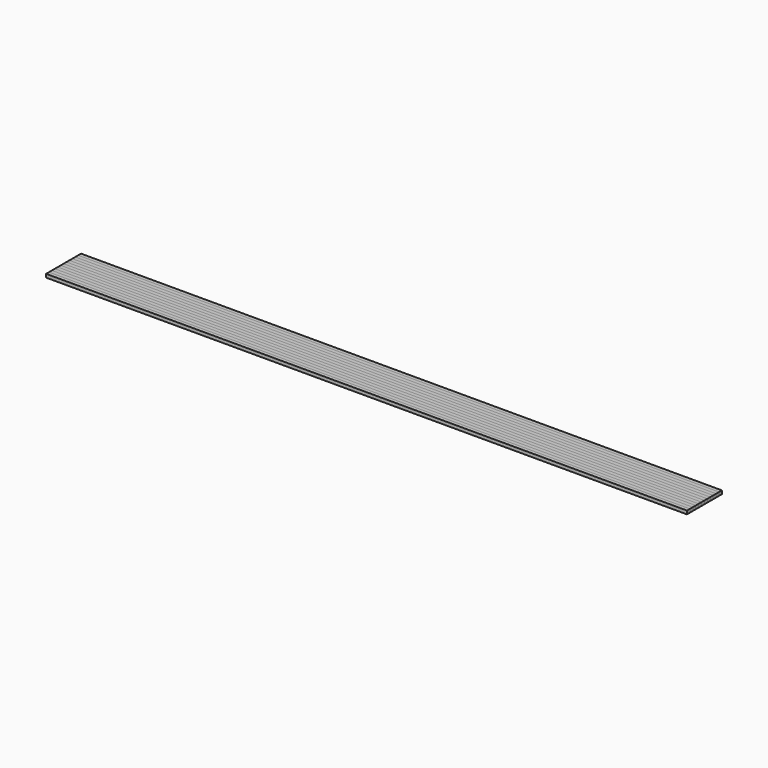
from build123d import *

# Parameters (mm, degrees)
F0_W     = 95
F0_H     = 0.54
F1_DEPTH = 0.5
F2_DEPTH = 0.5


with BuildPart() as f1:
    # F0 (on Top) → F1 (new body)
    with BuildSketch(Plane.XY):
        with Locations((0, 2.98)):
            Rectangle(F0_W, F0_H)
        with Locations((0, 1.9)):
            Rectangle(F0_W, F0_H)
        with Locations((0, 0.82)):
            Rectangle(F0_W, F0_H)
        with Locations((0, -0.26)):
            Rectangle(F0_W, F0_H)
        with Locations((0, -1.34)):
            Rectangle(F0_W, F0_H)
        with Locations((0, -2.42)):
            Rectangle(F0_W, F0_H)
    extrude(amount=F1_DEPTH)


with BuildPart() as f2:
    # F0 (on Top) → F2 (new body)
    with BuildSketch(Plane.XY):
        with Locations((0, 2.44)):
            Rectangle(F0_W, F0_H)
        with Locations((0, 1.36)):
            Rectangle(F0_W, F0_H)
        with Locations((0, 0.28)):
            Rectangle(F0_W, F0_H)
        with Locations((0, -0.8)):
            Rectangle(F0_W, F0_H)
        with Locations((0, -1.88)):
            Rectangle(F0_W, F0_H)
        with Locations((0, -2.96)):
            Rectangle(F0_W, F0_H)
    extrude(amount=F2_DEPTH)


solid = Compound([f1.part, f2.part])
